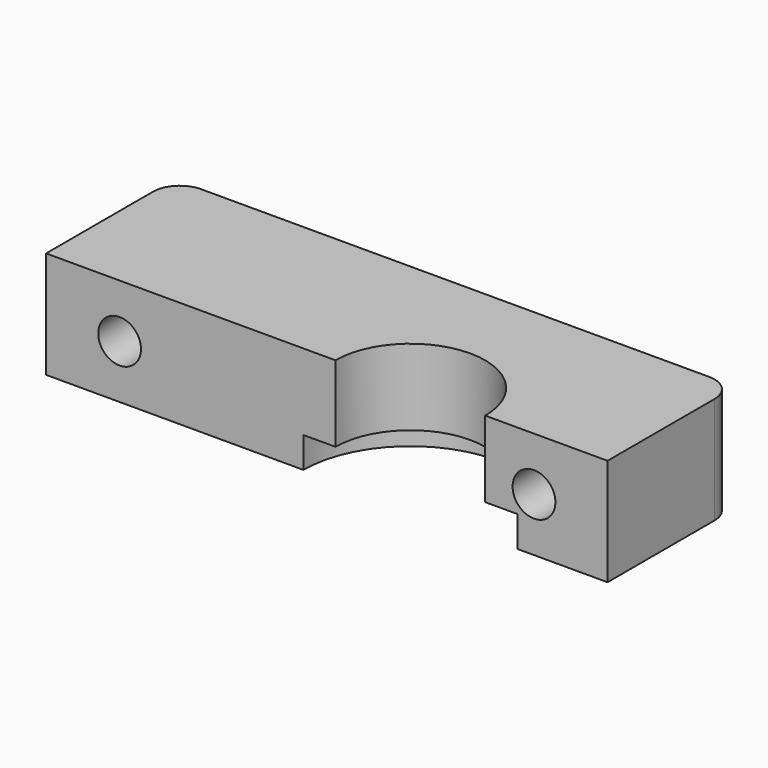
from build123d import *

# Parameters (mm, degrees)
SKETCH007_R  = 1.6
PAD007_DEPTH = 12
SKETCH005_R  = 8
PAD005_DEPTH = 2.3
SKETCH008_R  = 3
PAD008_DEPTH = 3
PAD_DEPTH    = 8
FILLET_R     = 2


with BuildPart() as hotendmount02:
    # Sketch007 → Pad007 (new body)
    with BuildSketch(Plane.XZ):
        with Locations((5.5, 4)):
            Circle(SKETCH007_R)
        with Locations((36.5, 4)):
            Circle(SKETCH007_R)
    extrude(amount=-PAD007_DEPTH)


with BuildPart() as hotendmount:
    # Sketch005 → Pad005 (new body)
    with BuildSketch(Plane.XY):
        with Locations((27.25, 0)):
            Circle(SKETCH005_R)
    extrude(amount=PAD005_DEPTH)


with BuildPart() as cutblock:
    # Sketch008 → Pad008 (new body)
    with BuildSketch(Plane.XZ.offset(-9)):
        with Locations((5.5, 4)):
            Circle(SKETCH008_R)
        with Locations((36.5, 4)):
            Circle(SKETCH008_R)
    extrude(amount=-PAD008_DEPTH)

    # Fusion: union HotEndMount02, HotEndMount
    add(hotendmount02.part)
    add(hotendmount.part)


with BuildPart() as fillet_body:
    # Sketch → Pad (new body)
    with BuildSketch(Plane.XY):
        with BuildLine():
            Line((0, 12), (42, 12))
            Line((42, 12), (42, 0))
            Line((32.85, 0), (42, 0))
            ThreePointArc((32.85, 0), (27.25, 5.6), (21.65, 0))
            Line((21.65, 0), (0, 0))
            Line((0, 0), (0, 12))
        make_face()
    extrude(amount=PAD_DEPTH)

    # Cut: cut CutBlock
    add(cutblock.part, mode=Mode.SUBTRACT)

    # Fillet
    fillet_edges = [fillet_body.edges().sort_by_distance(p)[0] for p in [
        (42, 12, 4),
        (0, 12, 4),
    ]]
    fillet(fillet_edges, radius=FILLET_R)


solid = fillet_body.part
